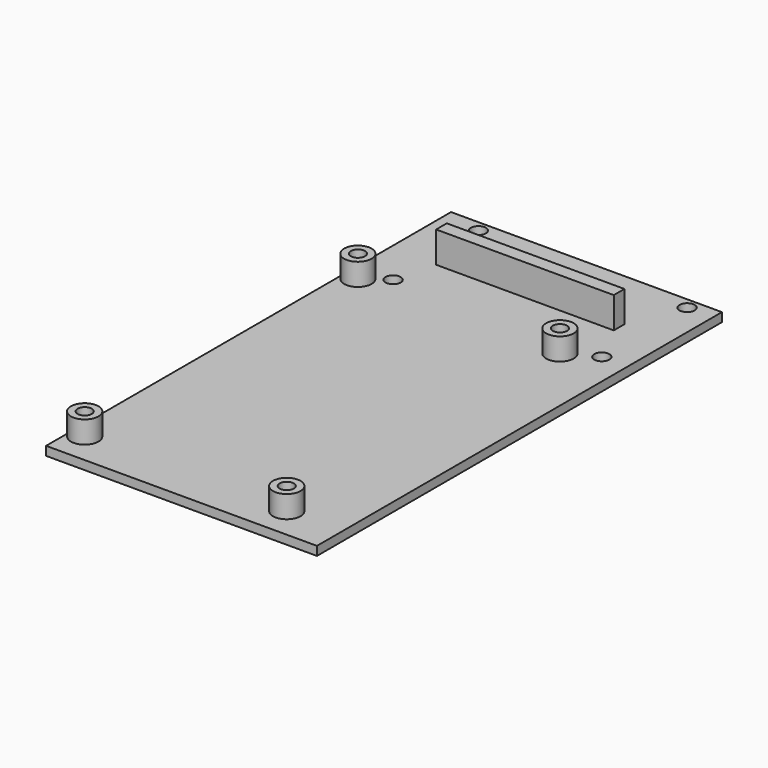
from build123d import *

# Parameters (mm, degrees)
SKETCH_W          = 61
SKETCH_H          = 114
SKETCH_R          = 1.7
PAD_DEPTH         = 2
SKETCH003_W       = 40
SKETCH003_H       = 3
PAD001_DEPTH      = 7
PAD001_DEPTH_BACK = 2
SKETCH002_R       = 3.1
SKETCH002_R_2     = 1.6
EXTRUDE_DEPTH     = 7


with BuildPart() as body:
    # Sketch → Pad (new body)
    with BuildSketch(Plane.XY):
        Rectangle(SKETCH_W, SKETCH_H)
        with Locations((24.65964, 54.5)):
            Circle(SKETCH_R, mode=Mode.SUBTRACT)
        with Locations((-22.34036, 54.5)):
            Circle(SKETCH_R, mode=Mode.SUBTRACT)
        with Locations((24.65964, 30.5)):
            Circle(SKETCH_R, mode=Mode.SUBTRACT)
        with Locations((-22.34036, 30.5)):
            Circle(SKETCH_R, mode=Mode.SUBTRACT)
    extrude(amount=PAD_DEPTH)

    # Sketch003 (on Face10 of Pad) → Pad001 (join, two sides)
    with BuildSketch(Plane.XY.offset(2)) as pad001_sk:
        with Locations((0, 41.180457)):
            Rectangle(SKETCH003_W, SKETCH003_H)
    extrude(amount=PAD001_DEPTH)
    extrude(pad001_sk.sketch, amount=-PAD001_DEPTH_BACK)


with BuildPart() as extrude_body:
    # Sketch002 → Extrude (new body)
    with BuildSketch(Plane.XY):
        with Locations((18.1, 26.9)):
            Circle(SKETCH002_R)
        with Locations((18.1, 26.9)):
            Circle(SKETCH002_R_2, mode=Mode.SUBTRACT)
        with Locations((-27.4, 26.9)):
            Circle(SKETCH002_R)
        with Locations((-27.4, 26.9)):
            Circle(SKETCH002_R_2, mode=Mode.SUBTRACT)
        with Locations((18.1, -50)):
            Circle(SKETCH002_R)
        with Locations((18.1, -50)):
            Circle(SKETCH002_R_2, mode=Mode.SUBTRACT)
        with Locations((-27.4, -50)):
            Circle(SKETCH002_R)
        with Locations((-27.4, -50)):
            Circle(SKETCH002_R_2, mode=Mode.SUBTRACT)
    extrude(amount=EXTRUDE_DEPTH)


solid = Compound([body.part, extrude_body.part])
